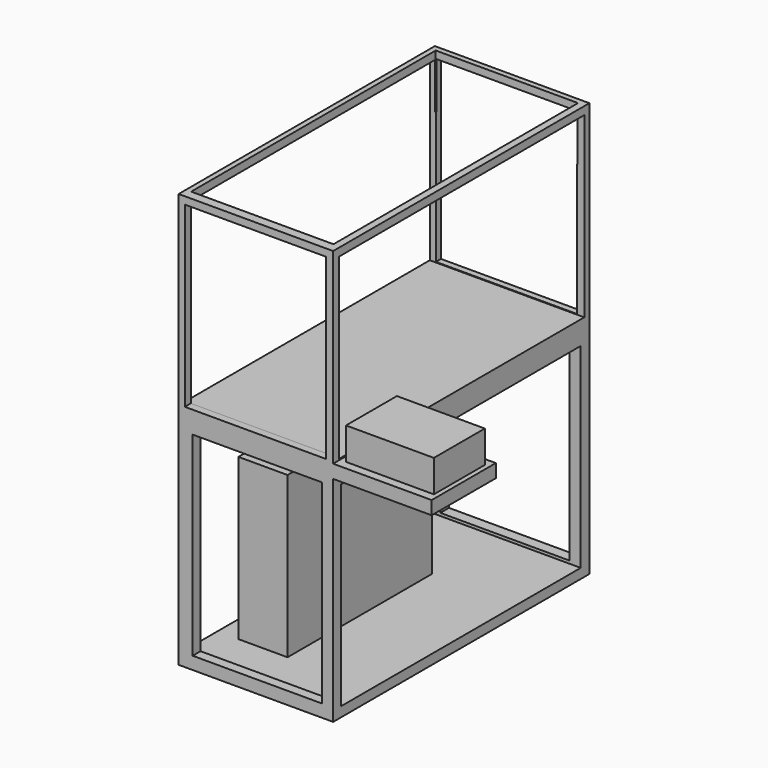
from build123d import *

# Parameters (mm, degrees)
F1_DEPTH  = 6.35
F2_W      = 73.3638033271
F2_H      = 152.095682919
F3_DEPTH  = 88.9
F4_W      = 67.0051856432
F4_H      = 84.5473129302
F5_DEPTH  = 152.096682919
F6_W      = 145.5166
F6_H      = 84.5473115332
F7_DEPTH  = 73.3648033271
F9_DEPTH  = 101.6
F10_W     = 61.4134236239
F10_H     = 92.4503207207
F11_DEPTH = 152.096682919
F12_W     = 142.3074528575
F12_H     = 92.7804936655
F13_DEPTH = 73.3648033271
F14_W     = 41.7297899257
F14_H     = 30.2092880011
F15_DEPTH = 15.24
F16_W     = 23.332670331
F16_H     = 85.8200117946
F17_DEPTH = 76.2
F18_W     = 67.5868841354
F18_H     = 145.1581940055
F19_DEPTH = 25.4


with BuildPart() as f1:
    # F0 (on Top) → F1 (new body)
    with BuildSketch(Plane.XY):
        Polygon((0, -38.3434519172), (0, 0), (0, 75.664408505), (-73.3638033271, 75.664408505), (-73.3638033271, -76.4312744141), (46.7790141702, -76.4312744141), (46.7790141702, -38.3434519172), align=None)
    extrude(amount=F1_DEPTH)

    # F2 (on face) → F3 (join)
    with BuildSketch(Plane.XY.offset(6.35)):
        with Locations((-36.6819016635, -0.3834329545)):
            Rectangle(F2_W, F2_H)
    extrude(amount=F3_DEPTH)

    # F4 (on face) → F5 (cut, through all)
    with BuildSketch(Plane.XZ.offset(76.4312744141)):
        with Locations((-36.9535022182, 49.4980504736)):
            Rectangle(F4_W, F4_H)
    extrude(amount=-F5_DEPTH, mode=Mode.SUBTRACT)

    # F6 (on face) → F7 (cut, through all)
    with BuildSketch(Plane.YZ):
        with Locations((-0.1172402437, 49.2104736622)):
            Rectangle(F6_W, F6_H)
    extrude(amount=-F7_DEPTH, mode=Mode.SUBTRACT)

    # F8 (on face) → F9 (join)
    with BuildSketch(Plane(origin=(0, 0, 0), x_dir=(1, 0, 0), z_dir=(0, 0, -1))):
        Polygon((0, 76.4312744141), (-73.3638033271, 76.4312744141), (-73.3638033271, -75.664408505), (0, -75.664408505), (0, 38.3434519172), align=None)
    extrude(amount=F9_DEPTH)

    # F10 (on face) → F11 (cut, through all)
    with BuildSketch(Plane.XZ.offset(76.4312744141)):
        with Locations((-35.9895892907, -49.4001582265)):
            Rectangle(F10_W, F10_H)
    extrude(amount=-F11_DEPTH, mode=Mode.SUBTRACT)

    # F12 (on face) → F13 (cut, through all)
    with BuildSketch(Plane.YZ):
        with Locations((-0.6109066308, -50.5557840224)):
            Rectangle(F12_W, F12_H)
    extrude(amount=-F13_DEPTH, mode=Mode.SUBTRACT)

    # F18 (on face) → F19 (cut)
    with BuildSketch(Plane.XY.offset(95.25)):
        with Locations((-37.1215863852, 0.5243904889)):
            Rectangle(F18_W, F18_H)
    extrude(amount=-F19_DEPTH, mode=Mode.SUBTRACT)


with BuildPart() as f15:
    # F14 (on face) → F15 (new body)
    with BuildSketch(Plane.XY.offset(6.35)):
        with Locations((23.6810125643, -57.2060719132)):
            Rectangle(F14_W, F14_H)
    extrude(amount=F15_DEPTH)


with BuildPart() as f17:
    # F16 (on face) → F17 (new body)
    with BuildSketch(Plane.XY.offset(-96.9460308552)):
        with Locations((-51.7062321305, -10.5309672654)):
            Rectangle(F16_W, F16_H)
    extrude(amount=F17_DEPTH)


solid = Compound([f1.part, f15.part, f17.part])
